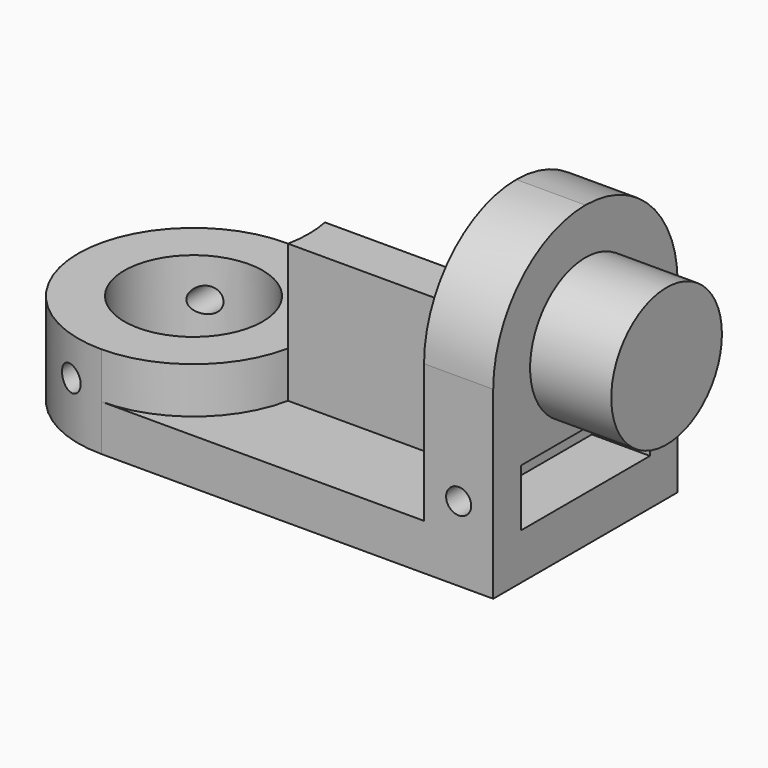
from build123d import *

# Parameters (mm, degrees)
F1_DEPTH  = 41.275
F3_DEPTH  = 31.751
F5_DEPTH  = 69.851
F6_W      = 22.225
F6_H      = 7.874
F7_DEPTH  = 8.001
F8_R      = 9.525
F9_DEPTH  = 11.176
F10_R     = 1.7272
F11_DEPTH = 31.751
F13_DEPTH = 6.35
F14_R     = 9.525
F15_DEPTH = 12.701
F17_DEPTH = 25.4
F18_R     = 1.7272
F19_DEPTH = 31.751


with BuildPart() as f1:
    # F0 (on Top) → F1 (new body)
    with BuildSketch(Plane.XY):
        with BuildLine():
            ThreePointArc((0, 31.75), (-15.875, 15.875), (0, 0))
            Line((0, 0), (53.975, 0))
            Line((53.975, 0), (53.975, 31.75))
            Line((53.975, 31.75), (0, 31.75))
        make_face()
    extrude(amount=F1_DEPTH)

    # F2 (on face) → F3 (cut, through all)
    with BuildSketch(Plane.XZ):
        Polygon((44.45, 6.35), (44.45, 41.275), (-15.875, 41.275), (-15.875, 12.7), (15.875, 12.7), (15.875, 6.35), align=None)
    extrude(amount=-F3_DEPTH, mode=Mode.SUBTRACT)

    # F4 (on face) → F5 (cut, through all)
    with BuildSketch(Plane.YZ.offset(53.975)):
        with BuildLine():
            ThreePointArc((0, 25.4), (4.6496798487, 36.6253201513), (15.875, 41.275))
            Line((15.875, 41.275), (0, 41.275))
            Line((0, 41.275), (0, 25.4))
        make_face()
        with BuildLine():
            ThreePointArc((15.875, 41.275), (27.1003201513, 36.6253201513), (31.75, 25.4))
            Line((31.75, 25.4), (31.75, 41.275))
            Line((31.75, 41.275), (15.875, 41.275))
        make_face()
    extrude(amount=-F5_DEPTH, mode=Mode.SUBTRACT)

    # F6 (on face) → F7 (cut)
    with BuildSketch(Plane.YZ.offset(53.975)):
        with Locations((15.875, 10.287)):
            Rectangle(F6_W, F6_H)
    extrude(amount=-F7_DEPTH, mode=Mode.SUBTRACT)

    # F8 (on face) → F9 (join)
    with BuildSketch(Plane.YZ.offset(53.975)):
        with Locations((15.875, 25.4)):
            Circle(F8_R)
    extrude(amount=F9_DEPTH)

    # F10 (on face) → F11 (cut, through all)
    with BuildSketch(Plane.XZ):
        with Locations((49.2125, 10.287)):
            Circle(F10_R)
    extrude(amount=-F11_DEPTH, mode=Mode.SUBTRACT)

    # F12 (on face) → F13 (cut)
    with BuildSketch(Plane.XY.offset(12.7)):
        with BuildLine():
            ThreePointArc((0, 31.75), (11.2253201513, 27.1003201513), (15.875, 15.875))
            Line((15.875, 15.875), (15.875, 31.75))
            Line((15.875, 31.75), (0, 31.75))
        make_face()
        with BuildLine():
            Line((15.875, 0), (15.875, 15.875))
            ThreePointArc((15.875, 15.875), (11.2253201513, 4.6496798487), (0, 0))
            Line((0, 0), (15.875, 0))
        make_face()
    extrude(amount=-F13_DEPTH, mode=Mode.SUBTRACT)

    # F14 (on face) → F15 (cut, through all)
    with BuildSketch(Plane.XY.offset(12.7)):
        with Locations((0, 15.875)):
            Circle(F14_R)
    extrude(amount=-F15_DEPTH, mode=Mode.SUBTRACT)

    # F16 (on Top) → F17 (join)
    with BuildSketch(Plane.XY):
        with BuildLine():
            Line((44.45, 19.05), (15.5542598667, 19.05))
            ThreePointArc((15.5542598667, 19.05), (15.875, 15.875), (15.5542598667, 12.7))
            Line((15.5542598667, 12.7), (44.45, 12.7))
            Line((44.45, 12.7), (44.45, 19.05))
        make_face()
    extrude(amount=F17_DEPTH)

    # F18 (on face) → F19 (cut, through all)
    with BuildSketch(Plane(origin=(0, 31.75, 0), x_dir=(-1, 0, 0), z_dir=(0, 1, 0))):
        with Locations((4.8054051585, 7.3282429948)):
            Circle(F18_R)
    extrude(amount=-F19_DEPTH, mode=Mode.SUBTRACT)


solid = f1.part
